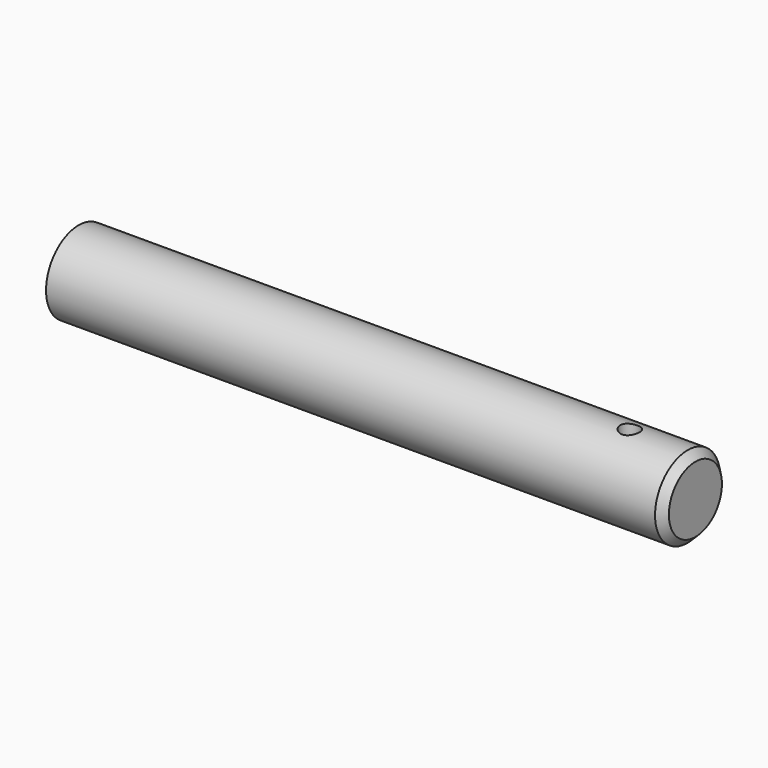
from build123d import *

# Parameters (mm, degrees)
F0_R     = 2.65
F1_DEPTH = 40
F2_R     = 1.1
F3_DEPTH = 5
F4_SIZE  = 0.5
F5_R     = 0.625
F6_DEPTH = 12.5
F7_R     = 2
F8_DEPTH = 2.5


with BuildPart() as f1:
    # F0 (on Right) → F1 (new body)
    with BuildSketch(Plane.YZ):
        Circle(F0_R)
    extrude(amount=F1_DEPTH)

    # F2 (on Right) → F3 (cut)
    with BuildSketch(Plane.YZ):
        Circle(F2_R)
    extrude(amount=F3_DEPTH, mode=Mode.SUBTRACT)

    # F4
    f4_edges = [f1.edges().sort_by_distance(p)[0] for p in [
        (40, -2.65, 0),
    ]]
    chamfer(f4_edges, length=F4_SIZE)

    # F5 (on Top) → F6 (cut, symmetric)
    with BuildSketch(Plane.XY):
        with Locations((35.75, 0)):
            Circle(F5_R)
    extrude(amount=F6_DEPTH, both=True, mode=Mode.SUBTRACT)

    # F7 (on face) → F8 (cut)
    with BuildSketch(Plane(origin=(0, 0, 0), x_dir=(0, -1, 0), z_dir=(-1, 0, 0))):
        Circle(F7_R)
    extrude(amount=-F8_DEPTH, mode=Mode.SUBTRACT)


solid = f1.part
